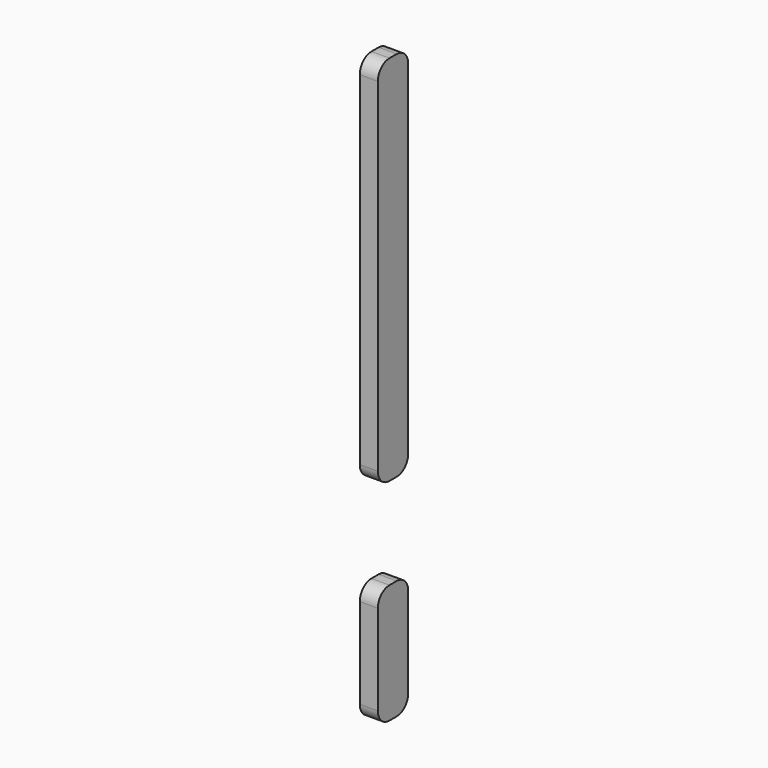
from build123d import *

# Parameters (mm, degrees)
F1_DEPTH = 1


with BuildPart() as f1:
    # F0 (on Right) → F1 (new body)
    with BuildSketch(Plane.YZ):
        with BuildLine():
            Line((-1.725032, 120.086536), (-2.225032, 120.086536))
            ThreePointArc((-2.225032, 120.086536), (-2.790717, 119.852221), (-3.025032, 119.286536))
            Line((-3.025032, 119.286536), (-3.025032, 100.286536))
            ThreePointArc((-3.025032, 100.286536), (-2.790717, 99.72085), (-2.225032, 99.486536))
            Line((-2.225032, 99.486536), (-1.725032, 99.486536))
            ThreePointArc((-1.725032, 99.486536), (-1.159346, 99.72085), (-0.925032, 100.286536))
            Line((-0.925032, 100.286536), (-0.925032, 119.286536))
            ThreePointArc((-0.925032, 119.286536), (-1.159346, 119.852221), (-1.725032, 120.086536))
        make_face()
        with BuildLine():
            Line((-1.725032, 94.408533), (-2.225032, 94.408533))
            ThreePointArc((-2.225032, 94.408533), (-2.790717, 94.174219), (-3.025032, 93.608533))
            Line((-3.025032, 93.608533), (-3.025032, 88.608533))
            ThreePointArc((-3.025032, 88.608533), (-2.790717, 88.042848), (-2.225032, 87.808533))
            Line((-2.225032, 87.808533), (-1.725032, 87.808533))
            ThreePointArc((-1.725032, 87.808533), (-1.159346, 88.042848), (-0.925032, 88.608533))
            Line((-0.925032, 88.608533), (-0.925032, 93.608533))
            ThreePointArc((-0.925032, 93.608533), (-1.159346, 94.174219), (-1.725032, 94.408533))
        make_face()
    extrude(amount=F1_DEPTH)


solid = f1.part
